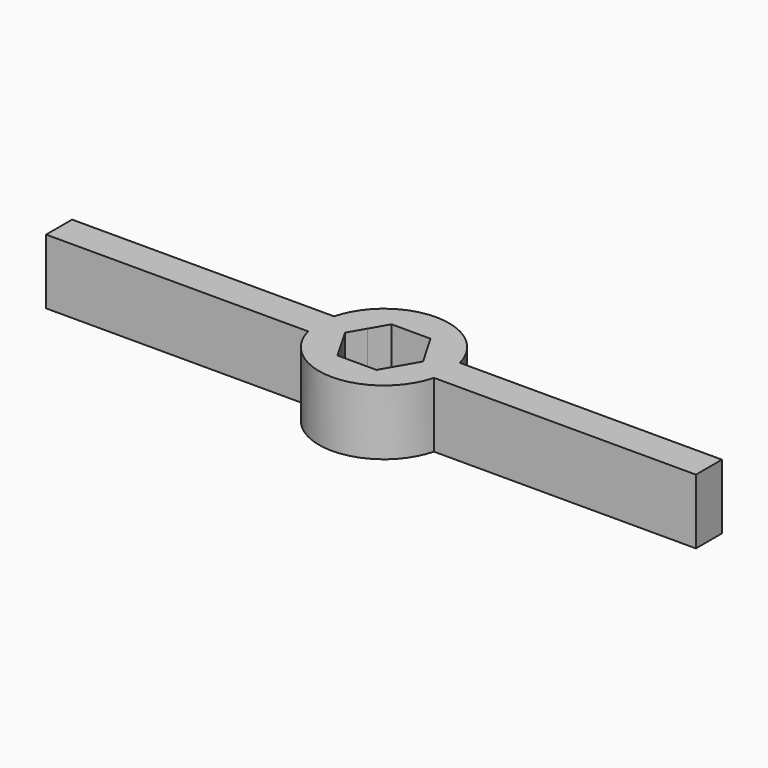
from build123d import *

# Parameters (mm, degrees)
F1_DEPTH = 12.7


with BuildPart() as f1:
    # F0 (on Top) → F1 (new body)
    with BuildSketch(Plane.XY):
        with BuildLine():
            ThreePointArc((-12.296722, -3.175), (-12.7, 0), (-12.296722, 3.175))
            Line((-12.296722, 3.175), (-63.5, 3.175))
            Line((-63.5, 3.175), (-63.5, -3.175))
            Line((-63.5, -3.175), (-12.296722, -3.175))
        make_face()
        with BuildLine():
            Line((-7.625642, 0), (-5.792555, 3.175))
            Line((-5.792555, 3.175), (-12.296722, 3.175))
            ThreePointArc((-12.296722, 3.175), (-12.7, 0), (-12.296722, -3.175))
            Line((-12.296722, -3.175), (-5.792555, -3.175))
            Line((-5.792555, -3.175), (-7.625642, 0))
        make_face()
        with BuildLine():
            Line((-3.812821, 6.604), (3.812821, 6.604))
            Line((3.812821, 6.604), (5.792555, 3.175))
            Line((5.792555, 3.175), (12.296722, 3.175))
            ThreePointArc((12.296722, 3.175), (0, 12.7), (-12.296722, 3.175))
            Line((-12.296722, 3.175), (-5.792555, 3.175))
            Line((-5.792555, 3.175), (-3.812821, 6.604))
        make_face()
        with BuildLine():
            Line((12.296722, 3.175), (5.792555, 3.175))
            Line((5.792555, 3.175), (7.625642, 0))
            Line((7.625642, 0), (5.792555, -3.175))
            Line((5.792555, -3.175), (12.296722, -3.175))
            ThreePointArc((12.296722, -3.175), (12.598777, -1.600255), (12.7, 0))
            ThreePointArc((12.7, 0), (12.598777, 1.600255), (12.296722, 3.175))
        make_face()
        with BuildLine():
            Line((12.296722, -3.175), (5.792555, -3.175))
            Line((5.792555, -3.175), (3.812821, -6.604))
            Line((3.812821, -6.604), (-3.812821, -6.604))
            Line((-3.812821, -6.604), (-5.792555, -3.175))
            Line((-5.792555, -3.175), (-12.296722, -3.175))
            ThreePointArc((-12.296722, -3.175), (0, -12.7), (12.296722, -3.175))
        make_face()
        with BuildLine():
            Line((63.5, 3.175), (12.296722, 3.175))
            ThreePointArc((12.296722, 3.175), (12.598777, 1.600255), (12.7, 0))
            ThreePointArc((12.7, 0), (12.598777, -1.600255), (12.296722, -3.175))
            Line((12.296722, -3.175), (63.5, -3.175))
            Line((63.5, -3.175), (63.5, 3.175))
        make_face()
    extrude(amount=F1_DEPTH)


solid = f1.part
